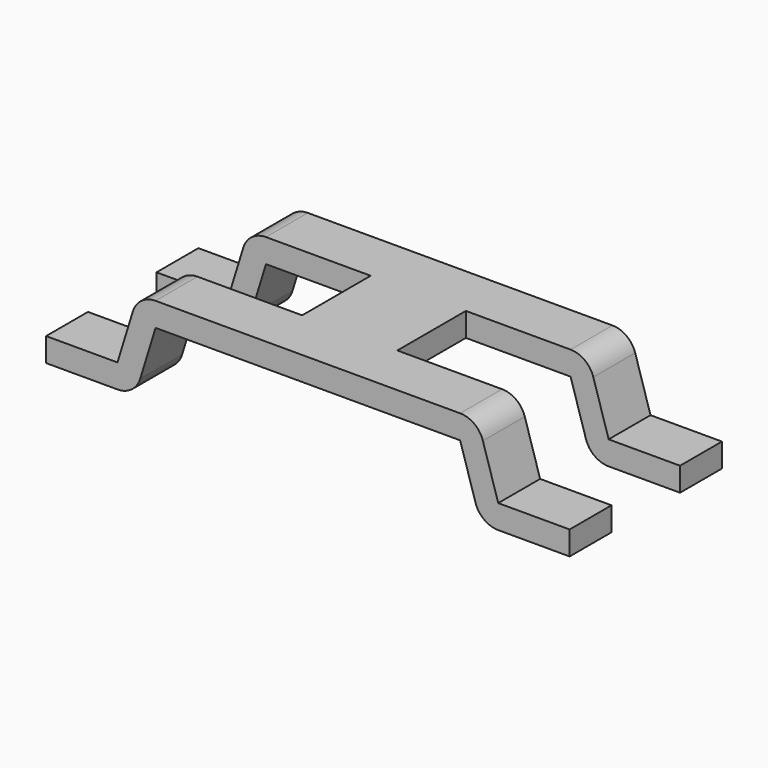
from build123d import *

# Parameters (mm, degrees)
PAD009_DEPTH      = 2
SKETCH011_W       = 5
SKETCH011_H       = 1.8
POCKET_DEPTH      = 23.716818
POCKET_DEPTH_BACK = 25.616818


with BuildPart() as part:
    # Sketch010 → Pad009 (new body, symmetric)
    with BuildSketch(Plane.XZ):
        with BuildLine():
            Line((0, 1.9), (3.2, 1.9))
            ThreePointArc((3.677897, 1.547019), (3.497061, 1.802188), (3.2, 1.9))
            Line((4, 0.5), (3.677897, 1.547019))
            Line((4, 0.5), (5.5, 0.5))
            Line((5.5, 0.5), (5.5, 0))
            Line((5.5, 0), (4, 0))
            ThreePointArc((3.522103, 0.352981), (3.702939, 0.097812), (4, 0))
            Line((3.2, 1.4), (3.522103, 0.352981))
            Line((3.2, 1.4), (0, 1.4))
            Line((0, 1.4), (0, 1.9))
        make_face()
    pad009 = extrude(amount=PAD009_DEPTH, both=True)

    # Mirrored: Pad009 across YZ
    add(pad009.mirror(Plane.YZ))

    # Sketch011 → Pocket (cut, two sides)
    with BuildSketch(Plane.XY) as pocket_sk:
        with Locations((3.5, 0)):
            Rectangle(SKETCH011_W, SKETCH011_H)
    pocket = extrude(amount=-POCKET_DEPTH, mode=Mode.SUBTRACT) + extrude(pocket_sk.sketch, amount=POCKET_DEPTH_BACK, mode=Mode.SUBTRACT)

    # Mirrored001: Pocket across YZ
    add(pocket.mirror(Plane.YZ), mode=Mode.SUBTRACT)


with BuildPart() as part_1:
    # Body002 placement: moved
    add(part.part.moved(Location((0, 14.75, 0))))


solid = part_1.part
